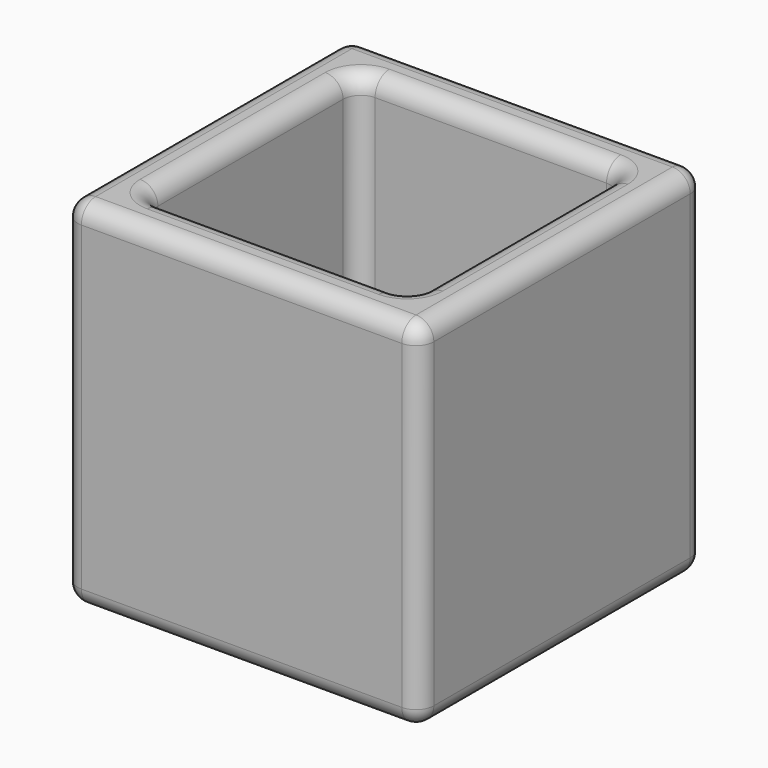
from build123d import *

# Parameters (mm, degrees)
SKETCH_W     = 20
SKETCH_H     = 20
PAD_DEPTH    = 20
SKETCH001_W  = 15
SKETCH001_H  = 15
POCKET_DEPTH = 17.5
FILLET_R     = 1


with BuildPart() as part:
    # Sketch → Pad (new body)
    with BuildSketch(Plane.XY):
        Rectangle(SKETCH_W, SKETCH_H)
    extrude(amount=PAD_DEPTH)

    # Sketch001 (on Face6 of Pad) → Pocket (cut)
    with BuildSketch(Plane.XY.offset(20)):
        Rectangle(SKETCH001_W, SKETCH001_H)
    extrude(amount=-POCKET_DEPTH, mode=Mode.SUBTRACT)

    # Fillet
    fillet_edges = [part.edges().sort_by_distance(p)[0] for p in [
        (-10, 0, 0),
        (-10, -10, 10),
        (-10, 10, 10),
        (0, 10, 0),
        (10, 0, 0),
        (0, -10, 0),
        (10, -10, 10),
        (10, 10, 10),
        (10, 0, 20),
        (0, 10, 20),
        (0, 7.5, 20),
        (7.5, 0, 2.5),
        (7.5, 0, 20),
        (0, -7.5, 20),
        (0, -10, 20),
        (-10, 0, 20),
        (0, -7.5, 2.5),
        (-7.5, 0, 20),
        (7.5, -7.5, 11.25),
        (7.5, 7.5, 11.25),
        (0, 7.5, 2.5),
        (-7.5, 7.5, 11.25),
        (-7.5, 0, 2.5),
        (-7.5, -7.5, 11.25),
    ]]
    fillet(fillet_edges, radius=FILLET_R)


solid = part.part
